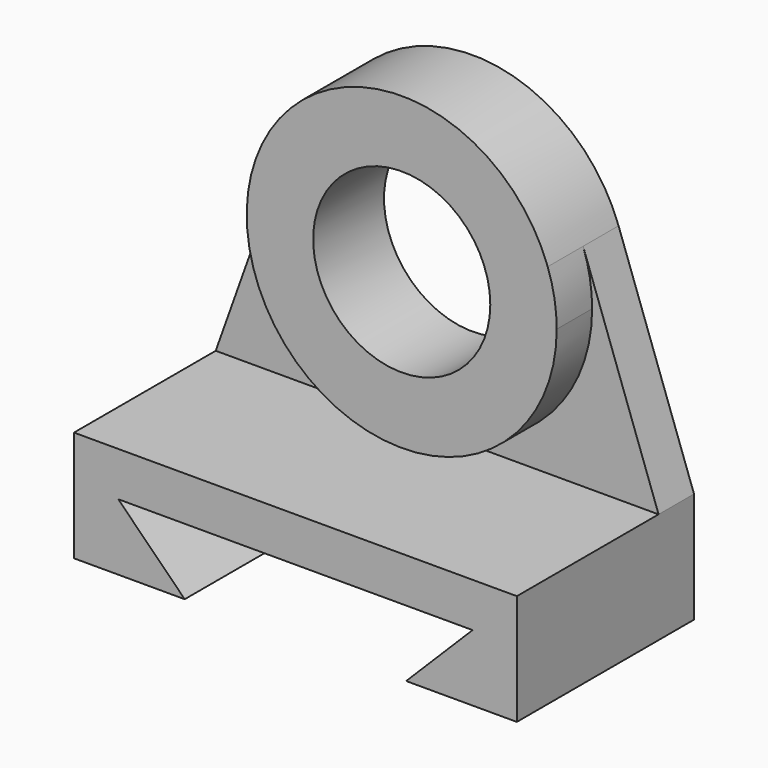
from build123d import *

# Parameters (mm, degrees)
F1_DEPTH = 127
F2_DEPTH = 25.4
F0_R     = 50.8
F3_DEPTH = 50.8


with BuildPart() as f1:
    # F0 (on Front) → F1 (new body)
    with BuildSketch(Plane.XZ):
        Polygon((127, -154.94), (127, -91.44), (-127, -91.44), (-127, -154.94), (-63.5, -154.94), (-101.6, -116.84), (101.6, -116.84), (63.5, -154.94), align=None)
    extrude(amount=F1_DEPTH)

    # F0 (on Front) → F2 (join)
    with BuildSketch(Plane.XZ):
        with BuildLine():
            ThreePointArc((83.733239, 29.86561), (87.598787, 15.15462), (88.9, 0))
            ThreePointArc((88.9, 0), (-15.15462, -87.598787), (-83.733239, 29.86561))
            Line((-83.733239, 29.86561), (-127, -91.44))
            Line((-127, -91.44), (127, -91.44))
            Line((127, -91.44), (83.733239, 29.86561))
        make_face()
    extrude(amount=F2_DEPTH)

    # F0 (on Front) → F3 (join)
    with BuildSketch(Plane.XZ):
        with BuildLine():
            ThreePointArc((-83.733239, 29.86561), (-15.15462, -87.598787), (88.9, 0))
            ThreePointArc((88.9, 0), (87.598787, 15.15462), (83.733239, 29.86561))
            ThreePointArc((83.733239, 29.86561), (0, 88.9), (-83.733239, 29.86561))
        make_face()
        Circle(F0_R, mode=Mode.SUBTRACT)
    extrude(amount=F3_DEPTH)


solid = f1.part
